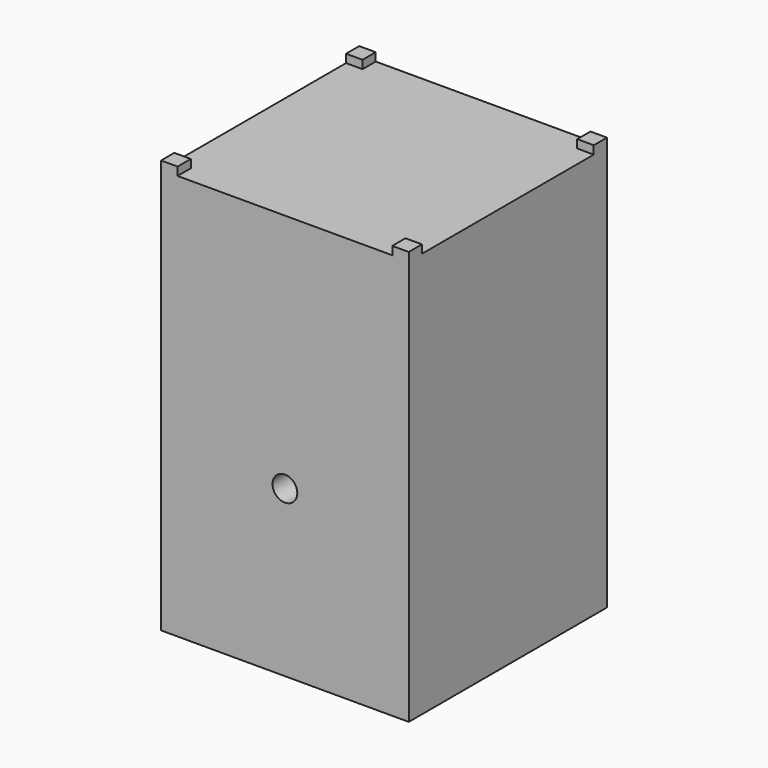
from build123d import *

# Parameters (mm, degrees)
F0_W     = 30
F0_H     = 30
F1_DEPTH = 49.1
F2_R     = 6.75
F3_DEPTH = 22
F4_W     = 2
F4_H     = 2
F5_DEPTH = 1
F8_R     = 1.5
F9_DEPTH = 8.4197768095


with BuildPart() as f1:
    # F0 (on Top) → F1 (new body)
    with BuildSketch(Plane.XY):
        Rectangle(F0_W, F0_H)
    extrude(amount=F1_DEPTH)

    # F2 (on Top) → F3 (cut)
    with BuildSketch(Plane.XY):
        Circle(F2_R)
    extrude(amount=F3_DEPTH, mode=Mode.SUBTRACT)

    # F4 (on face) → F5 (join)
    with BuildSketch(Plane.XY.offset(49.1)):
        with Locations((14, 14)):
            Rectangle(F4_W, F4_H)
        with Locations((14, -14)):
            Rectangle(F4_W, F4_H)
        with Locations((-14, -14)):
            Rectangle(F4_W, F4_H)
        with Locations((-14, 14)):
            Rectangle(F4_W, F4_H)
    extrude(amount=F5_DEPTH)

    # F6 (on Front) → F7 (revolve, cut)
    with BuildSketch(Plane.XZ):
        Polygon((0, 14.9834286422), (0, 0), (10, 0), align=None)
    revolve(axis=Axis((0, 0, 7.4917143211), (0, 0, -1)), mode=Mode.SUBTRACT)

    # F8 (on face) → F9 (cut, through all)
    with BuildSketch(Plane.XZ.offset(15)):
        with Locations((0, 20)):
            Circle(F8_R)
    extrude(amount=-F9_DEPTH, mode=Mode.SUBTRACT)


solid = f1.part
